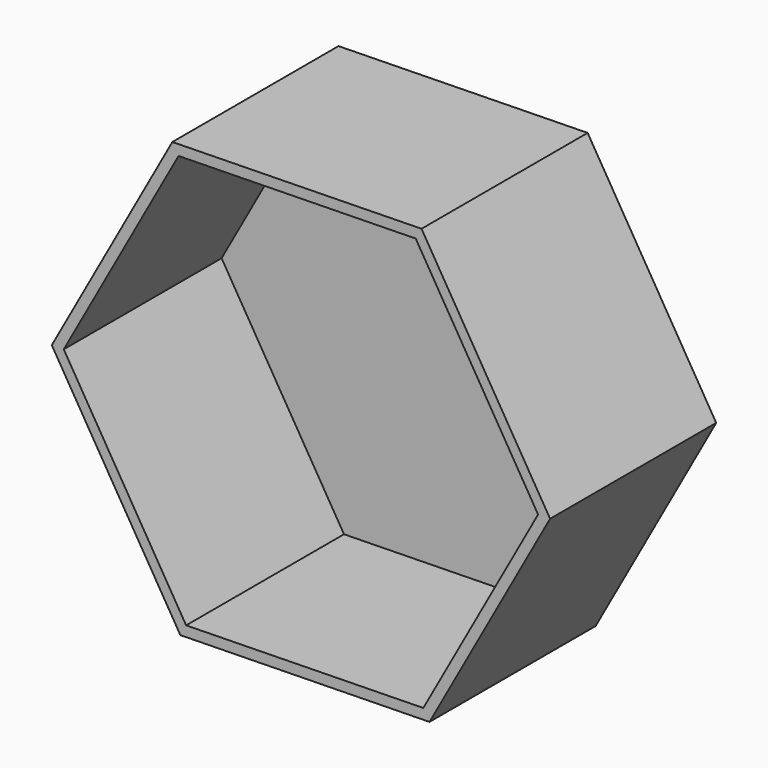
from build123d import *

# Parameters (mm, degrees)
F1_DEPTH = 254
F2_T     = -12.7


with BuildPart() as f1:
    # F0 (on Front) → F1 (new body)
    with BuildSketch(Plane.XZ):
        Polygon((-157.257091, 261.100072), (-304.74784, -5.6386), (-147.490749, -266.738671), (157.257091, -261.100072), (304.74784, 5.6386), (147.490749, 266.738671), align=None)
    extrude(amount=F1_DEPTH)

    # F2
    f2_openings = [f1.faces().sort_by_distance(p)[0] for p in [
        (0, -254, 0),
    ]]
    offset(amount=F2_T, openings=f2_openings)


with BuildPart() as f3_1:
    # F3: copy of F1
    add(f1.part.moved(Location((557.77382, 0, 309.68302))))


solid = f1.part
